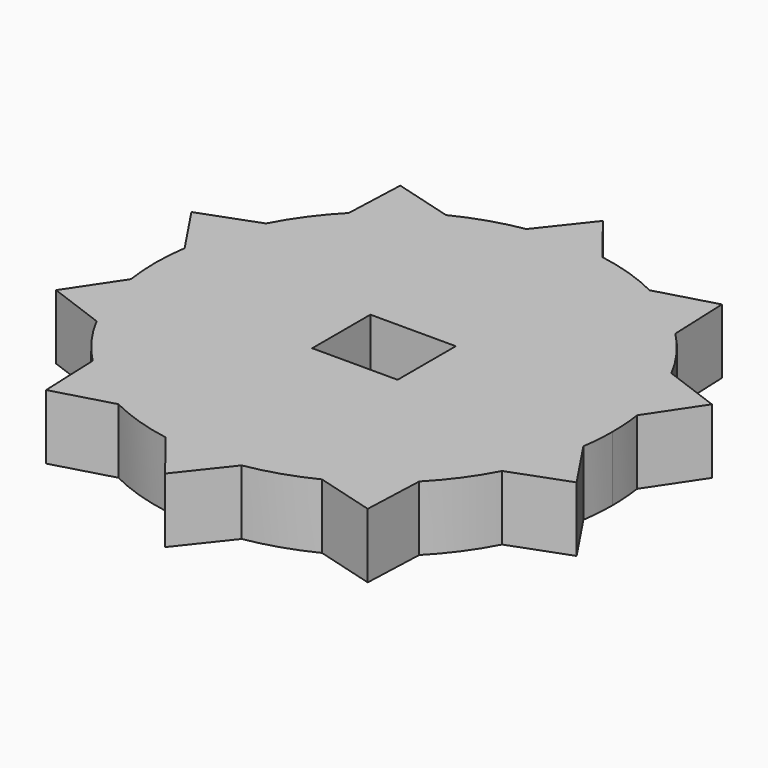
from build123d import *

# Parameters (mm, degrees)
F0_R     = 8.674945
F0_W     = 8.373142
F0_H     = 7.132674
F1_DEPTH = 6.35


with BuildPart() as f1:
    # F0 (on Top) → F1 (new body)
    with BuildSketch(Plane.XY):
        with BuildLine():
            ThreePointArc((22.177125, -3.289178), (22.358984, -1.649056), (22.419714, 0))
            ThreePointArc((22.419714, 0), (22.358984, 1.649056), (22.177125, 3.289178))
            ThreePointArc((22.177125, 3.289178), (21.322415, 6.928073), (19.875001, 10.374386))
            ThreePointArc((19.875001, 10.374386), (18.137929, 13.177977), (16.008341, 15.696388))
            ThreePointArc((16.008341, 15.696388), (13.177977, 18.137929), (9.981302, 20.075287))
            ThreePointArc((9.981302, 20.075287), (6.928073, 21.322415), (3.724915, 22.108111))
            ThreePointArc((3.724915, 22.108111), (0, 22.419714), (-3.724915, 22.108111))
            ThreePointArc((-3.724915, 22.108111), (-6.928073, 21.322415), (-9.981302, 20.075287))
            ThreePointArc((-9.981302, 20.075287), (-13.177977, 18.137929), (-16.008341, 15.696388))
            ThreePointArc((-16.008341, 15.696388), (-18.137929, 13.177977), (-19.875001, 10.374386))
            ThreePointArc((-19.875001, 10.374386), (-21.322415, 6.928073), (-22.177125, 3.289178))
            ThreePointArc((-22.177125, 3.289178), (-22.419714, 0), (-22.177125, -3.289178))
            ThreePointArc((-22.177125, -3.289178), (-21.322415, -6.928073), (-19.875001, -10.374386))
            ThreePointArc((-19.875001, -10.374386), (-18.137929, -13.177977), (-16.008341, -15.696388))
            ThreePointArc((-16.008341, -15.696388), (-13.177977, -18.137929), (-9.981302, -20.075287))
            ThreePointArc((-9.981302, -20.075287), (-6.928073, -21.322415), (-3.724915, -22.108111))
            ThreePointArc((-3.724915, -22.108111), (0, -22.419714), (3.724915, -22.108111))
            ThreePointArc((3.724915, -22.108111), (6.928073, -21.322415), (9.981302, -20.075287))
            ThreePointArc((9.981302, -20.075287), (13.177977, -18.137929), (16.008341, -15.696388))
            ThreePointArc((16.008341, -15.696388), (18.137929, -13.177977), (19.875001, -10.374386))
            ThreePointArc((19.875001, -10.374386), (21.322415, -6.928073), (22.177125, -3.289178))
        make_face()
        Circle(F0_R, mode=Mode.SUBTRACT)
        with BuildLine():
            ThreePointArc((-16.008341, 15.696388), (-13.177977, 18.137929), (-9.981302, 20.075287))
            Line((-9.981302, 20.075287), (-15.767374, 21.701929))
            Line((-15.767374, 21.701929), (-16.008341, 15.696388))
        make_face()
        with BuildLine():
            ThreePointArc((-3.724915, 22.108111), (0, 22.419714), (3.724915, 22.108111))
            Line((3.724915, 22.108111), (0, 26.825059))
            Line((0, 26.825059), (-3.724915, 22.108111))
        make_face()
        with BuildLine():
            ThreePointArc((9.981302, 20.075287), (13.177977, 18.137929), (16.008341, 15.696388))
            Line((16.008341, 15.696388), (15.767374, 21.701929))
            Line((15.767374, 21.701929), (9.981302, 20.075287))
        make_face()
        with BuildLine():
            ThreePointArc((19.875001, 10.374386), (21.322415, 6.928073), (22.177125, 3.289178))
            Line((22.177125, 3.289178), (25.512147, 8.289399))
            Line((25.512147, 8.289399), (19.875001, 10.374386))
        make_face()
        with BuildLine():
            Line((25.512147, -8.289399), (22.177125, -3.289178))
            ThreePointArc((22.177125, -3.289178), (21.322415, -6.928073), (19.875001, -10.374386))
            Line((19.875001, -10.374386), (25.512147, -8.289399))
        make_face()
        with BuildLine():
            Line((15.767374, -21.701929), (16.008341, -15.696388))
            ThreePointArc((16.008341, -15.696388), (13.177977, -18.137929), (9.981302, -20.075287))
            Line((9.981302, -20.075287), (15.767374, -21.701929))
        make_face()
        with BuildLine():
            Line((0, -26.825059), (3.724915, -22.108111))
            ThreePointArc((3.724915, -22.108111), (0, -22.419714), (-3.724915, -22.108111))
            Line((-3.724915, -22.108111), (0, -26.825059))
        make_face()
        with BuildLine():
            Line((-15.767374, -21.701929), (-9.981302, -20.075287))
            ThreePointArc((-9.981302, -20.075287), (-13.177977, -18.137929), (-16.008341, -15.696388))
            Line((-16.008341, -15.696388), (-15.767374, -21.701929))
        make_face()
        with BuildLine():
            Line((-25.512147, -8.289399), (-19.875001, -10.374386))
            ThreePointArc((-19.875001, -10.374386), (-21.322415, -6.928073), (-22.177125, -3.289178))
            Line((-22.177125, -3.289178), (-25.512147, -8.289399))
        make_face()
        with BuildLine():
            ThreePointArc((-22.177125, 3.289178), (-21.322415, 6.928073), (-19.875001, 10.374386))
            Line((-19.875001, 10.374386), (-25.512147, 8.289399))
            Line((-25.512147, 8.289399), (-22.177125, 3.289178))
        make_face()
        Circle(F0_R)
        Rectangle(F0_W, F0_H, mode=Mode.SUBTRACT)
    extrude(amount=F1_DEPTH)


solid = f1.part
